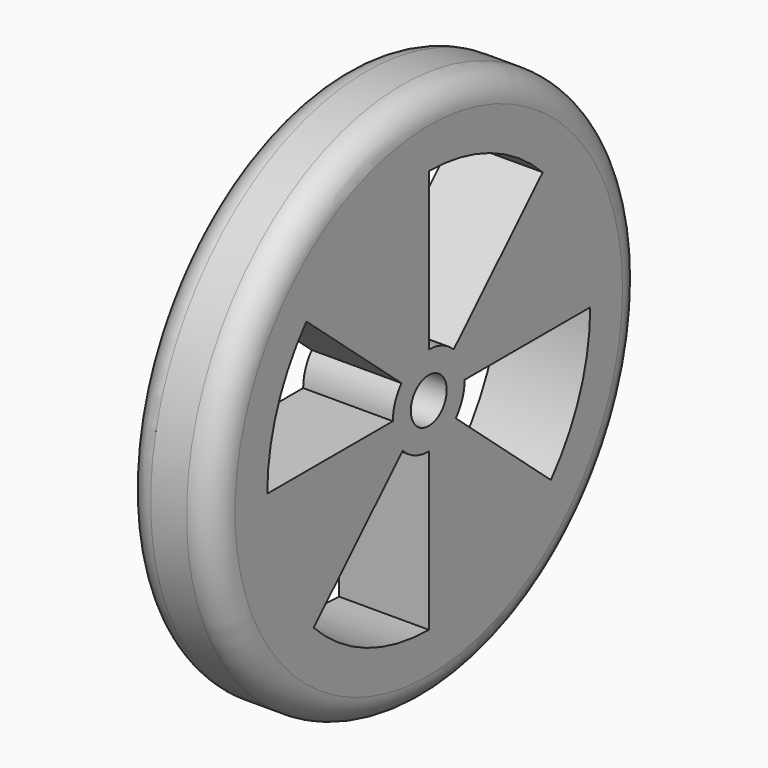
from build123d import *

# Parameters (mm, degrees)
F0_R     = 76.2
F1_DEPTH = 25.4
F2_R     = 6.35
F3_DEPTH = 25.4
F5_DEPTH = 25.4
F6_R     = 7.62


with BuildPart() as f1:
    # F0 (on Right) → F1 (new body)
    with BuildSketch(Plane.YZ):
        Circle(F0_R)
    extrude(amount=F1_DEPTH)

    # F2 (on face) → F3 (cut)
    with BuildSketch(Plane.YZ.offset(25.4)):
        Circle(F2_R)
    extrude(amount=-F3_DEPTH, mode=Mode.SUBTRACT)

    # F4 (on face) → F5 (cut)
    with BuildSketch(Plane.YZ.offset(25.4)):
        with BuildLine():
            ThreePointArc((-40.737736199, -40.0819080058), (-22.0844001217, -52.7105470591), (0, -57.15))
            Line((0, -57.15), (0, -12.7))
            ThreePointArc((0, -12.7), (-5.0078416892, -11.6709691807), (-9.2041521286, -8.7506333253))
            Line((-9.2041521286, -8.7506333253), (-40.737736199, -40.0819080058))
        make_face()
        with BuildLine():
            ThreePointArc((43.2249520119, -37.3861742301), (53.5557116818, -19.947637611), (57.15, 0))
            Line((57.15, 0), (12.7, 0))
            ThreePointArc((12.7, 0), (11.89277789, -4.4555397045), (9.5737269199, -8.3446841081))
            Line((9.5737269199, -8.3446841081), (43.2249520119, -37.3861742301))
        make_face()
        with BuildLine():
            Line((8.8096923922, 9.1476401304), (40.3432764626, 40.4789148108))
            ThreePointArc((40.3432764626, 40.4789148108), (21.8260454338, 52.8180484373), (0, 57.15))
            Line((0, 57.15), (0, 12.7))
            ThreePointArc((0, 12.7), (4.749472094, 11.7784767618), (8.8096923922, 9.1476401304))
        make_face()
        with BuildLine():
            Line((-9.6552608984, 8.2502082994), (-43.3064859904, 37.2916984215))
            ThreePointArc((-43.3064859904, 37.2916984215), (-53.57745876, 19.889153145), (-57.15, 0))
            Line((-57.15, 0), (-12.7, 0))
            ThreePointArc((-12.7, 0), (-11.9145250306, 4.3970550708), (-9.6552608984, 8.2502082994))
        make_face()
    extrude(amount=-F5_DEPTH, mode=Mode.SUBTRACT)

    # F6
    f6_edges = [f1.edges().sort_by_distance(p)[0] for p in [
        (25.4, -76.2, 0),
        (0, -76.2, 0),
    ]]
    fillet(f6_edges, radius=F6_R)


solid = f1.part
